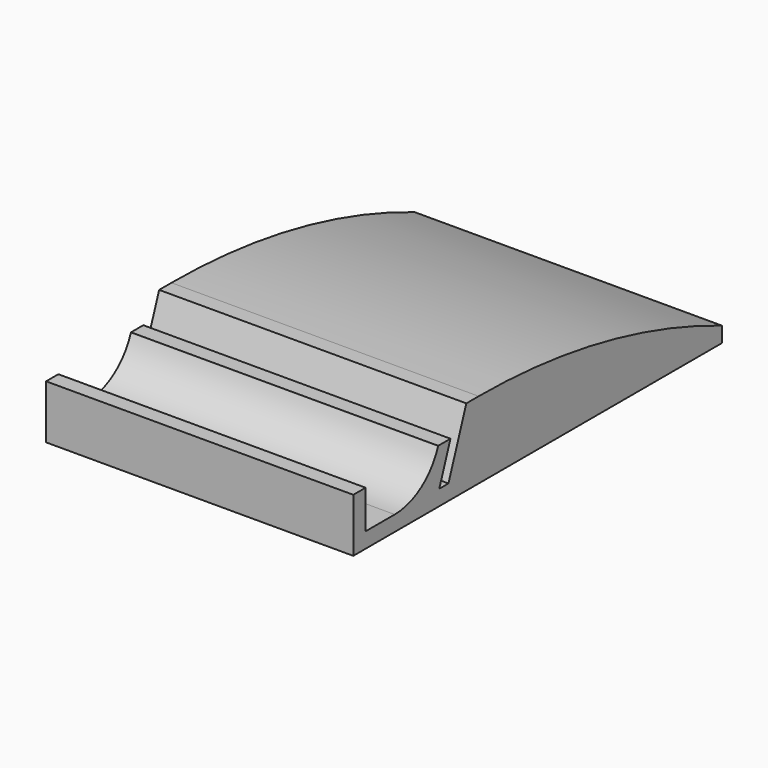
from build123d import *

# Parameters (mm, degrees)
F1_DEPTH = 40
F2_R     = 7.5


with BuildPart() as f1:
    # F0 (on Right) → F1 (new body)
    with BuildSketch(Plane.YZ):
        with BuildLine():
            Line((0, -2), (0, 0))
            ThreePointArc((0, 0), (-19.399179, 5.979998), (-39.598389, 8))
            Line((-39.598389, 8), (-41.598389, 8))
            Line((-41.598389, 8), (-44.510151, 0))
            Line((-44.510151, 0), (-46, 0))
            Line((-46, 0), (-44.180149, 5))
            Line((-44.180149, 5), (-46.180149, 5))
            Line((-46.180149, 5), (-48, 0))
            Line((-48, 0), (-58, 0))
            Line((-58, 0), (-58, 5))
            Line((-58, 5), (-60, 5))
            Line((-60, 5), (-60, -2))
            Line((-60, -2), (0, -2))
        make_face()
    extrude(amount=F1_DEPTH)

    # F2
    f2_edges = [f1.edges().sort_by_distance(p)[0] for p in [
        (20, -48, 0),
    ]]
    fillet(f2_edges, radius=F2_R)


solid = f1.part
